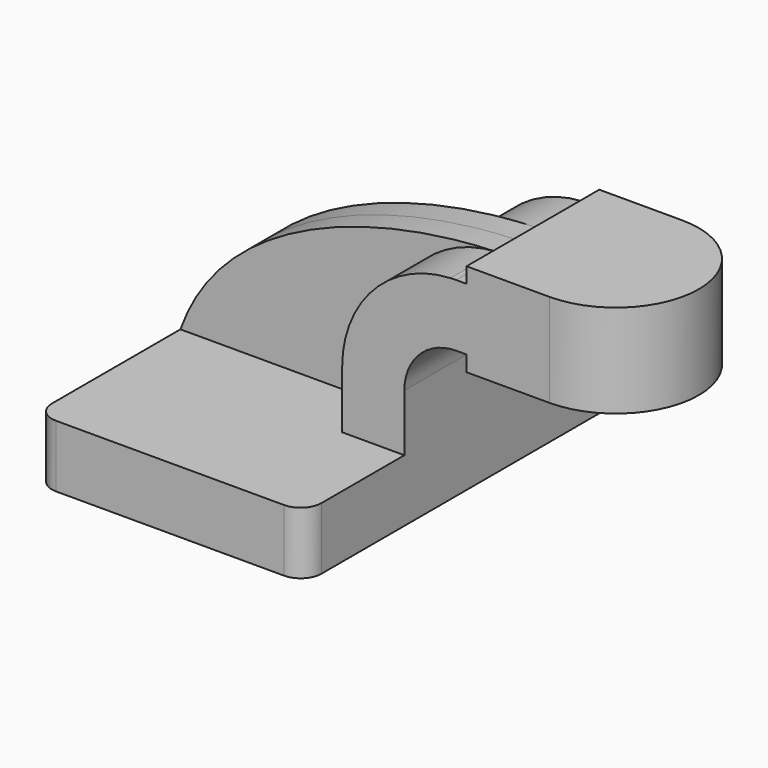
from build123d import *

# Parameters (mm, degrees)
F1_DEPTH = 63.5
F2_DEPTH = 25.4
F3_DEPTH = 7.9375
F0_W     = 25.4
F0_H     = 28.575
F5_R     = 6.35


with BuildPart() as f1:
    # F0 (on Front) → F1 (new body, symmetric)
    with BuildSketch(Plane.XZ):
        Polygon((41.275, -9.525), (41.275, 9.525), (22.225, 9.525), (-41.275, 9.525), (-41.275, -9.525), align=None)
    extrude(amount=F1_DEPTH, both=True)

    # F0 (on Front) → F2 (join, symmetric)
    with BuildSketch(Plane.XZ):
        with BuildLine():
            Line((22.225, 9.525), (41.275, 9.525))
            Line((41.275, 9.525), (41.275, 27.0002))
            ThreePointArc((41.275, 27.0002), (45.92468, 38.22552), (57.15, 42.8752))
            Line((57.15, 42.8752), (60.325, 42.8752))
            Line((60.325, 42.8752), (60.325, 61.9252))
            Line((60.325, 61.9252), (57.15, 61.9252))
            add(Edge.make_bspline(
                [(55.397646, 61.88121), (55.98511, 61.899276), (56.569297, 61.913923), (57.15, 61.9252)],
                knots=[109.698867, 109.698867, 109.698867, 109.698867, 111.504536, 111.504536, 111.504536, 111.504536], degree=3))
            ThreePointArc((55.397646, 61.88121), (31.842327, 51.068381), (22.225, 27.0002))
            Line((22.225, 27.0002), (22.225, 9.525))
        make_face()
        Polygon((60.325, 61.9252), (60.325, 42.8752), (60.325, 38.1), (85.725, 38.1), (85.725, 66.675), (60.325, 66.675), align=None)
    extrude(amount=F2_DEPTH, both=True)

    # F0 (on Front) → F3 (join, symmetric)
    with BuildSketch(Plane.XZ):
        with BuildLine():
            Line((-41.275, 9.525), (22.225, 9.525))
            Line((22.225, 9.525), (22.225, 27.0002))
            ThreePointArc((22.225, 27.0002), (31.842327, 51.068381), (55.397646, 61.88121))
            add(Edge.make_bspline(
                [(-41.275, 9.525), (-28.07554, 47.064815), (19.707757, 60.783645), (55.397646, 61.88121)],
                knots=[0, 0, 0, 0, 109.698867, 109.698867, 109.698867, 109.698867], degree=3))
        make_face()
    extrude(amount=F3_DEPTH, both=True)

    # F0 (on Front) → F4 (revolve)
    with BuildSketch(Plane.XZ):
        with Locations((98.425, 52.3875)):
            Rectangle(F0_W, F0_H)
    revolve(axis=Axis((85.725, 0, 52.3875), (0, 0, 1)))

    # F5
    f5_edges = [f1.edges().sort_by_distance(p)[0] for p in [
        (-41.275, -63.5, 0),
        (41.275, -63.5, 0),
        (41.275, 63.5, 0),
        (-41.275, 63.5, 0),
    ]]
    fillet(f5_edges, radius=F5_R)


solid = f1.part
